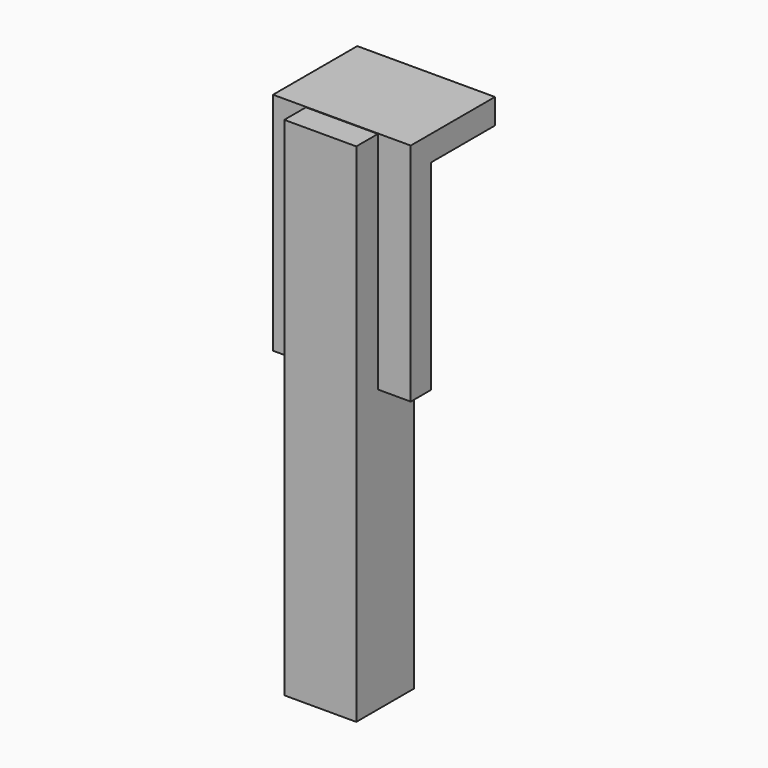
from build123d import *

# Parameters (mm, degrees)
BOX003_W     = 1.53
BOX003_H     = 0.28
BOX003_DEPTH = 2.5
BOX004_W     = 1.53
BOX004_H     = 1.17
BOX004_DEPTH = 0.28
BOX002_W     = 0.8
BOX002_H     = 0.8
BOX002_DEPTH = 5.63


with BuildPart() as cube002:
    # Box003 → Box003 (new body)
    with BuildSketch(Plane(origin=(-0.765, 0, 3.13), x_dir=(1, 0, 0), z_dir=(0, 0, 1))):
        with Locations((0.765, 0.14)):
            Rectangle(BOX003_W, BOX003_H)
    extrude(amount=BOX003_DEPTH)


with BuildPart() as cube003:
    # Box004 → Box004 (new body)
    with BuildSketch(Plane(origin=(-0.765, 0, 5.355), x_dir=(1, 0, 0), z_dir=(0, 0, 1))):
        with Locations((0.765, 0.585)):
            Rectangle(BOX004_W, BOX004_H)
    extrude(amount=BOX004_DEPTH)


with BuildPart() as obj1:
    # Box002 → Box002 (new body)
    with BuildSketch(Plane(origin=(-0.4, -0.3, 0), x_dir=(1, 0, 0), z_dir=(0, 0, 1))):
        with Locations((0.4, 0.4)):
            Rectangle(BOX002_W, BOX002_H)
    extrude(amount=BOX002_DEPTH)

    # Fusion: union Cube002, Cube003
    add(cube002.part)
    add(cube003.part)


solid = obj1.part
